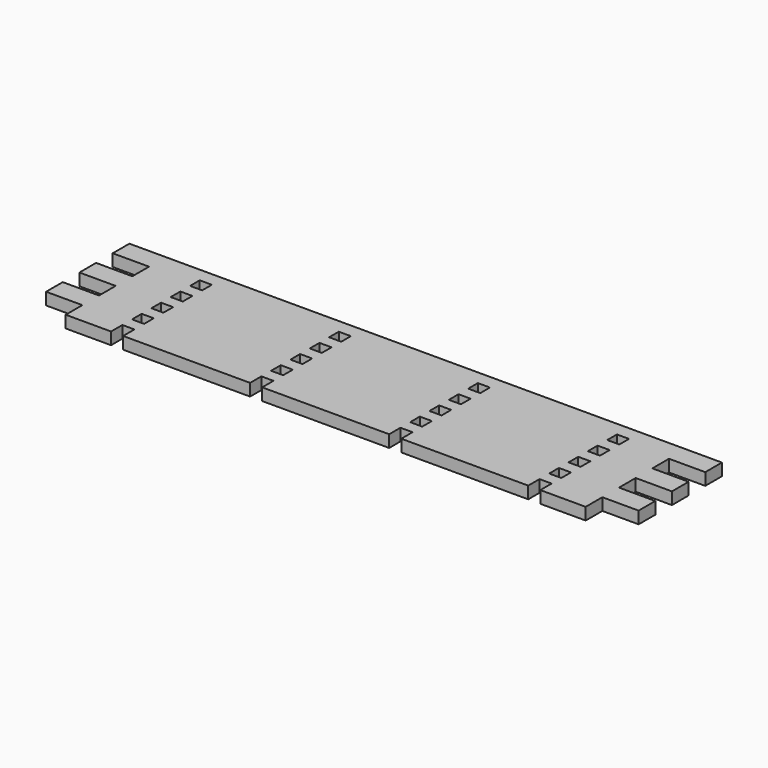
from build123d import *

# Parameters (mm, degrees)
F0_W     = 12
F0_H     = 12
F1_DEPTH = 12


with BuildPart() as f1:
    # F0 (on Top) → F1 (new body)
    with BuildSketch(Plane.XY):
        Polygon((294, 289.738842), (258, 289.738842), (258, 310.405508), (294, 310.405508), (294, 331.072175), (0, 331.072175), (-294, 331.072175), (-294, 310.405508), (-258, 310.405508), (-258, 289.738842), (-294, 289.738842), (-294, 269.072175), (-258, 269.072175), (-258, 248.405508), (-294, 248.405508), (-294, 227.738842), (-258, 227.738842), (-258, 207.072175), (-213, 207.072175), (-213, 221.072175), (-201, 221.072175), (-201, 207.072175), (-75, 207.072175), (-75, 221.072175), (-63, 221.072175), (-63, 207.072175), (0, 207.072175), (63, 207.072175), (63, 221.072175), (75, 221.072175), (75, 207.072175), (201, 207.072175), (201, 221.072175), (213, 221.072175), (213, 207.072175), (258, 207.072175), (258, 227.738842), (294, 227.738842), (294, 248.405508), (258, 248.405508), (258, 269.072175), (294, 269.072175), align=None)
        with Locations((-207, 239.072175)):
            Rectangle(F0_W, F0_H, mode=Mode.SUBTRACT)
        with Locations((-207, 263.072175)):
            Rectangle(F0_W, F0_H, mode=Mode.SUBTRACT)
        with Locations((-69, 239.072175)):
            Rectangle(F0_W, F0_H, mode=Mode.SUBTRACT)
        with Locations((-69, 263.072175)):
            Rectangle(F0_W, F0_H, mode=Mode.SUBTRACT)
        with Locations((69, 239.072175)):
            Rectangle(F0_W, F0_H, mode=Mode.SUBTRACT)
        with Locations((69, 263.072175)):
            Rectangle(F0_W, F0_H, mode=Mode.SUBTRACT)
        with Locations((207, 239.072175)):
            Rectangle(F0_W, F0_H, mode=Mode.SUBTRACT)
        with Locations((207, 263.072175)):
            Rectangle(F0_W, F0_H, mode=Mode.SUBTRACT)
        with Locations((-207, 287.072175)):
            Rectangle(F0_W, F0_H, mode=Mode.SUBTRACT)
        with Locations((-69, 287.072175)):
            Rectangle(F0_W, F0_H, mode=Mode.SUBTRACT)
        with Locations((-207, 311.072175)):
            Rectangle(F0_W, F0_H, mode=Mode.SUBTRACT)
        with Locations((-69, 311.072175)):
            Rectangle(F0_W, F0_H, mode=Mode.SUBTRACT)
        with Locations((69, 287.072175)):
            Rectangle(F0_W, F0_H, mode=Mode.SUBTRACT)
        with Locations((207, 287.072175)):
            Rectangle(F0_W, F0_H, mode=Mode.SUBTRACT)
        with Locations((69, 311.072175)):
            Rectangle(F0_W, F0_H, mode=Mode.SUBTRACT)
        with Locations((207, 311.072175)):
            Rectangle(F0_W, F0_H, mode=Mode.SUBTRACT)
    extrude(amount=F1_DEPTH)


solid = f1.part
